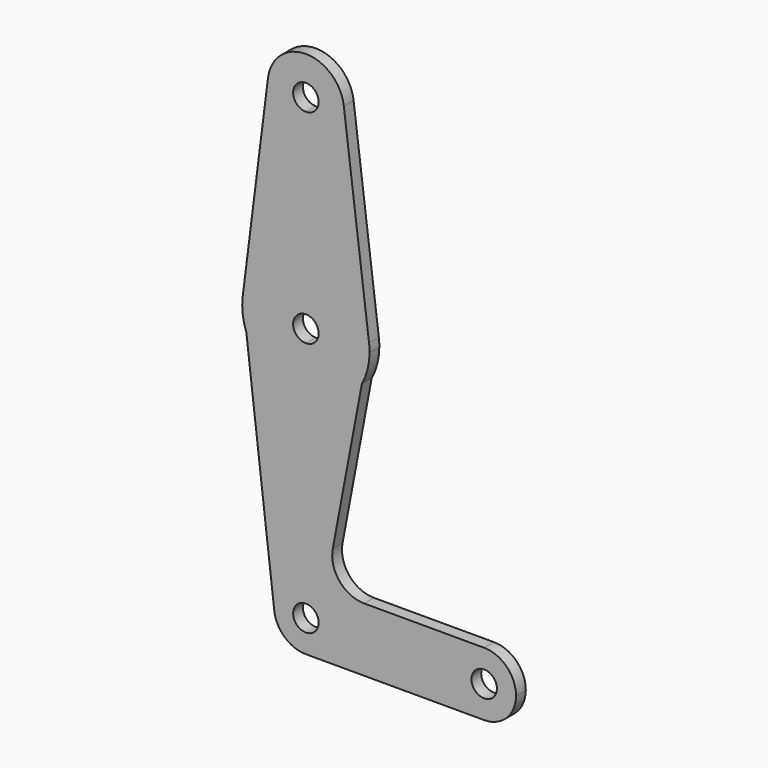
from build123d import *

# Parameters (mm, degrees)
F1_DEPTH = 3.048


with BuildPart() as f1:
    # F0 (on Front) → F1 (new body)
    with BuildSketch(Plane.XZ):
        with BuildLine():
            ThreePointArc((7.5227019244, -10.4490181237), (1.5890806412, -13.1143226875), (-0.3596819621, -19.3202903209))
            ThreePointArc((-0.3596819621, -19.3202903209), (2.2826274956, -24.3485250199), (7.6084325525, -26.3235551344))
            ThreePointArc((7.6084325525, -26.3235551344), (13.16559095, -23.9687855568), (15.4602019244, -18.3865181237))
            Line((15.4602019244, -18.3865181237), (10.6977019244, -18.3865181237))
            ThreePointArc((10.6977019244, -18.3865181237), (5.2776378942, -20.631582154), (7.5227019244, -15.2115181237))
            Line((7.5227019244, -15.2115181237), (7.5227019244, -10.4490181237))
        make_face()
        with BuildLine():
            Line((14.2200019541, -1.0290787363), (21.4755552782, 37.5415925289))
            ThreePointArc((21.4755552782, 37.5415925289), (15.6409493218, 31.4712795543), (7.5227019244, 29.2384818763))
            Line((7.5227019244, 29.2384818763), (7.5227019244, -10.4490181237))
            ThreePointArc((7.5227019244, -10.4490181237), (13.1353620001, -12.7738580481), (15.4602019244, -18.3865181237))
            Line((15.4602019244, -18.3865181237), (44.0352019244, -18.3865181237))
            ThreePointArc((44.0352019244, -18.3865181237), (46.3600418488, -12.7738580481), (51.9727019244, -10.4490181237))
            Line((51.9727019244, -10.4490181237), (22.0331668809, -10.4490181237))
            ThreePointArc((22.0331668809, -10.4490181237), (15.9139184745, -7.5742963259), (14.2200019541, -1.0290787363))
        make_face()
        with BuildLine():
            ThreePointArc((-1.9275910398, 97.1041068763), (0.3789519244, 89.6132865668), (7.5227019244, 86.3884818763))
            ThreePointArc((7.5227019244, 86.3884818763), (14.2578940152, 89.1782897855), (17.0477019244, 95.9134818763))
            ThreePointArc((17.0477019244, 95.9134818763), (17.0290068187, 96.5099651182), (16.9729948886, 97.1041068763))
            ThreePointArc((16.9729948886, 97.1041068763), (7.5227019244, 105.4384818763), (-1.9275910398, 97.1041068763))
        make_face()
        with BuildLine():
            ThreePointArc((10.6977019244, 95.9134818763), (9.7677659547, 93.668417846), (7.5227019244, 92.7384818763))
            ThreePointArc((7.5227019244, 92.7384818763), (5.2776378942, 98.1585459065), (10.6977019244, 95.9134818763))
        make_face(mode=Mode.SUBTRACT)
        with BuildLine():
            ThreePointArc((59.9102019244, -18.3865181237), (57.5853620001, -12.7738580481), (51.9727019244, -10.4490181237))
            ThreePointArc((51.9727019244, -10.4490181237), (46.3600418488, -12.7738580481), (44.0352019244, -18.3865181237))
            ThreePointArc((44.0352019244, -18.3865181237), (46.3600125617, -23.9991489122), (51.9726190879, -26.3240181233))
            ThreePointArc((51.9726190879, -26.3240181233), (57.5853327129, -23.9992074864), (59.9102019244, -18.3865181237))
        make_face()
        with BuildLine():
            ThreePointArc((55.1477019244, -18.3865181237), (51.9727019244, -21.5615181237), (48.7977019244, -18.3865181237))
            ThreePointArc((48.7977019244, -18.3865181237), (51.9727019244, -15.2115181237), (55.1477019244, -18.3865181237))
        make_face(mode=Mode.SUBTRACT)
        with BuildLine():
            ThreePointArc((23.2731901981, 47.0978568763), (18.0230274402, 57.0197318763), (7.5227019244, 60.9884818763))
            Line((7.5227019244, 60.9884818763), (7.5227019244, 48.2884818763))
            ThreePointArc((7.5227019244, 48.2884818763), (9.7677659547, 47.3585459065), (10.6977019244, 45.1134818763))
            ThreePointArc((10.6977019244, 45.1134818763), (9.7677659547, 42.868417846), (7.5227019244, 41.9384818763))
            Line((7.5227019244, 41.9384818763), (7.5227019244, 29.2384818763))
            ThreePointArc((7.5227019244, 29.2384818763), (15.6409493218, 31.4712795543), (21.4755552782, 37.5415925289))
            Line((21.4755552782, 37.5415925289), (23.2731901981, 47.0978568763))
        make_face()
        with BuildLine():
            ThreePointArc((23.3977019244, 45.1134818763), (23.3665434148, 46.1076206129), (23.2731901981, 47.0978568763))
            Line((23.2731901981, 47.0978568763), (21.4755552782, 37.5415925289))
            ThreePointArc((21.4755552782, 37.5415925289), (22.9096634827, 41.2074558901), (23.3977019244, 45.1134818763))
        make_face()
        with BuildLine():
            ThreePointArc((17.0477019244, 95.9134818763), (14.2578940152, 89.1782897855), (7.5227019244, 86.3884818763))
            Line((7.5227019244, 86.3884818763), (7.5227019244, 60.9884818763))
            ThreePointArc((7.5227019244, 60.9884818763), (18.0230274402, 57.0197318763), (23.2731901981, 47.0978568763))
            Line((23.2731901981, 47.0978568763), (16.9729948886, 97.1041068763))
            ThreePointArc((16.9729948886, 97.1041068763), (17.0290068187, 96.5099651182), (17.0477019244, 95.9134818763))
        make_face()
        with BuildLine():
            ThreePointArc((15.4602019244, -18.3865181237), (13.1353620001, -12.7738580481), (7.5227019244, -10.4490181237))
            Line((7.5227019244, -10.4490181237), (7.5227019244, -15.2115181237))
            ThreePointArc((7.5227019244, -15.2115181237), (9.7677659547, -16.1414540935), (10.6977019244, -18.3865181237))
            Line((10.6977019244, -18.3865181237), (15.4602019244, -18.3865181237))
        make_face()
        with BuildLine():
            ThreePointArc((15.4602019244, -18.3865181237), (13.16559095, -23.9687855568), (7.6084325525, -26.3235551344))
            Line((7.6084325525, -26.3235551344), (51.9726190879, -26.3240181233))
            ThreePointArc((51.9726190879, -26.3240181233), (46.3600125617, -23.9991489122), (44.0352019244, -18.3865181237))
            Line((44.0352019244, -18.3865181237), (15.4602019244, -18.3865181237))
        make_face()
        with BuildLine():
            Line((7.5227019244, 48.2884818763), (7.5227019244, 60.9884818763))
            ThreePointArc((7.5227019244, 60.9884818763), (-2.9776235914, 57.0197318763), (-8.2277863493, 47.0978568763))
            Line((-8.2277863493, 47.0978568763), (-7.3281904539, 39.5039702604))
            ThreePointArc((-7.3281904539, 39.5039702604), (-1.5040535308, 32.0546415391), (7.5227019244, 29.2384818763))
            Line((7.5227019244, 29.2384818763), (7.5227019244, 41.9384818763))
            ThreePointArc((7.5227019244, 41.9384818763), (4.3477019244, 45.1134818763), (7.5227019244, 48.2884818763))
        make_face()
        with BuildLine():
            Line((7.5227019244, 60.9884818763), (7.5227019244, 86.3884818763))
            ThreePointArc((7.5227019244, 86.3884818763), (0.3789519244, 89.6132865668), (-1.9275910398, 97.1041068763))
            Line((-1.9275910398, 97.1041068763), (-8.2277863493, 47.0978568763))
            ThreePointArc((-8.2277863493, 47.0978568763), (-2.9776235914, 57.0197318763), (7.5227019244, 60.9884818763))
        make_face()
        with BuildLine():
            ThreePointArc((7.5227019244, 29.2384818763), (-1.5040535308, 32.0546415391), (-7.3281904539, 39.5039702604))
            Line((-7.3281904539, 39.5039702604), (-0.3596819621, -19.3202903209))
            ThreePointArc((-0.3596819621, -19.3202903209), (1.5890806412, -13.1143226875), (7.5227019244, -10.4490181237))
            Line((7.5227019244, -10.4490181237), (7.5227019244, 29.2384818763))
        make_face()
        with BuildLine():
            Line((-7.3281904539, 39.5039702604), (-8.2277863493, 47.0978568763))
            ThreePointArc((-8.2277863493, 47.0978568763), (-8.2420658485, 43.245937482), (-7.3281904539, 39.5039702604))
        make_face()
    extrude(amount=F1_DEPTH)


solid = f1.part
